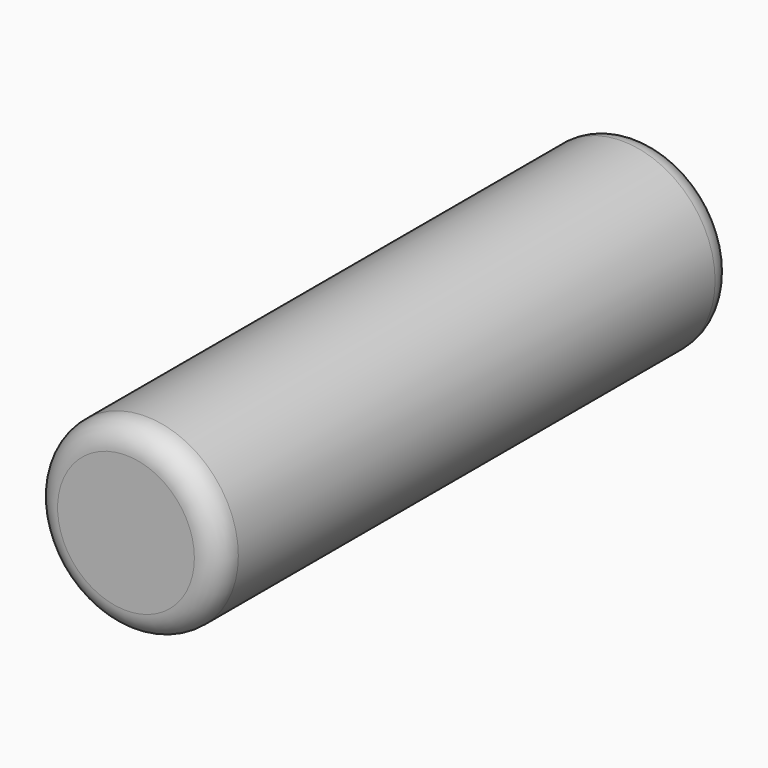
from build123d import *

# Parameters (mm, degrees)
F0_R     = 19
F1_DEPTH = 132
F2_R     = 5
F3_R     = 7.5
F4_DEPTH = 5
F5_R     = 2


with BuildPart() as f1:
    # F0 (on Front) → F1 (new body)
    with BuildSketch(Plane.XZ):
        Circle(F0_R)
    extrude(amount=F1_DEPTH)

    # F2
    f2_edges = [f1.edges().sort_by_distance(p)[0] for p in [
        (-19, -132, 0),
        (-19, 0, 0),
    ]]
    fillet(f2_edges, radius=F2_R)

    # F3 (on face) → F4 (join)
    with BuildSketch(Plane(origin=(0, 0, 0), x_dir=(-1, 0, 0), z_dir=(0, 1, 0))):
        Circle(F3_R)
    extrude(amount=F4_DEPTH)

    # F5
    f5_edges = [f1.edges().sort_by_distance(p)[0] for p in [
        (7.5, 5, 0),
    ]]
    fillet(f5_edges, radius=F5_R)


solid = f1.part
